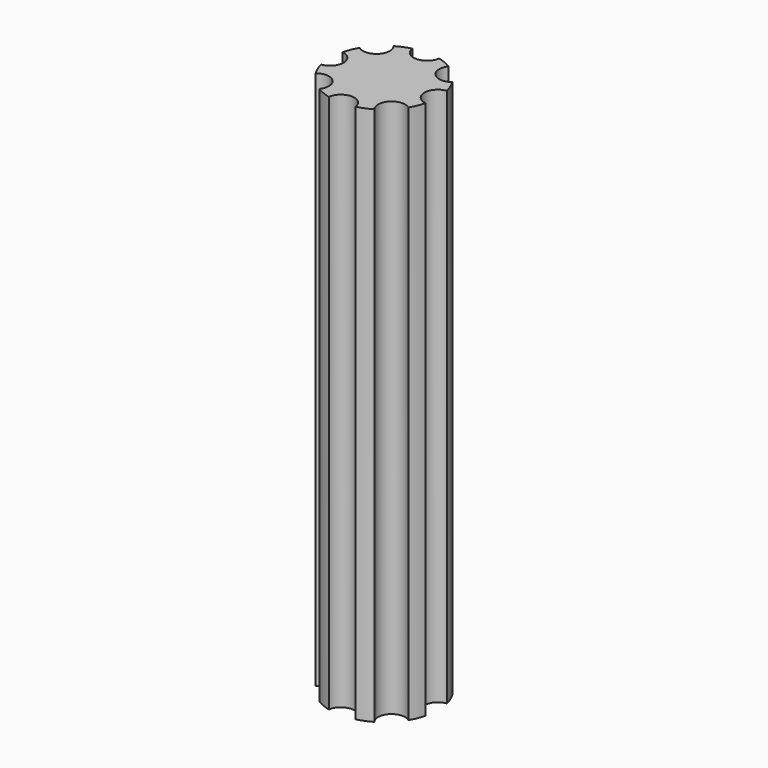
from build123d import *

# Parameters (mm, degrees)
F1_DEPTH = 100


with BuildPart() as f1:
    # F0 (on Top) → F1 (new body)
    with BuildSketch(Plane.XY):
        with BuildLine():
            ThreePointArc((8.603999, 5.096195), (5.303301, 5.303301), (5.096195, 8.603999))
            ThreePointArc((5.096195, 8.603999), (3.826834, 9.238795), (2.480392, 9.6875))
            ThreePointArc((2.480392, 9.6875), (0, 7.5), (-2.480392, 9.6875))
            ThreePointArc((-2.480392, 9.6875), (-3.826834, 9.238795), (-5.096195, 8.603999))
            ThreePointArc((-5.096195, 8.603999), (-5.303301, 5.303301), (-8.603999, 5.096195))
            ThreePointArc((-8.603999, 5.096195), (-9.238795, 3.826834), (-9.6875, 2.480392))
            ThreePointArc((-9.6875, 2.480392), (-7.5, 0), (-9.6875, -2.480392))
            ThreePointArc((-9.6875, -2.480392), (-9.238795, -3.826834), (-8.603999, -5.096195))
            ThreePointArc((-8.603999, -5.096195), (-5.303301, -5.303301), (-5.096195, -8.603999))
            ThreePointArc((-5.096195, -8.603999), (-3.826834, -9.238795), (-2.480392, -9.6875))
            ThreePointArc((-2.480392, -9.6875), (0, -7.5), (2.480392, -9.6875))
            ThreePointArc((2.480392, -9.6875), (3.826834, -9.238795), (5.096195, -8.603999))
            ThreePointArc((5.096195, -8.603999), (5.303301, -5.303301), (8.603999, -5.096195))
            ThreePointArc((8.603999, -5.096195), (9.238795, -3.826834), (9.6875, -2.480392))
            ThreePointArc((9.6875, -2.480392), (7.5, 0), (9.6875, 2.480392))
            ThreePointArc((9.6875, 2.480392), (9.238795, 3.826834), (8.603999, 5.096195))
        make_face()
    extrude(amount=F1_DEPTH)


solid = f1.part
